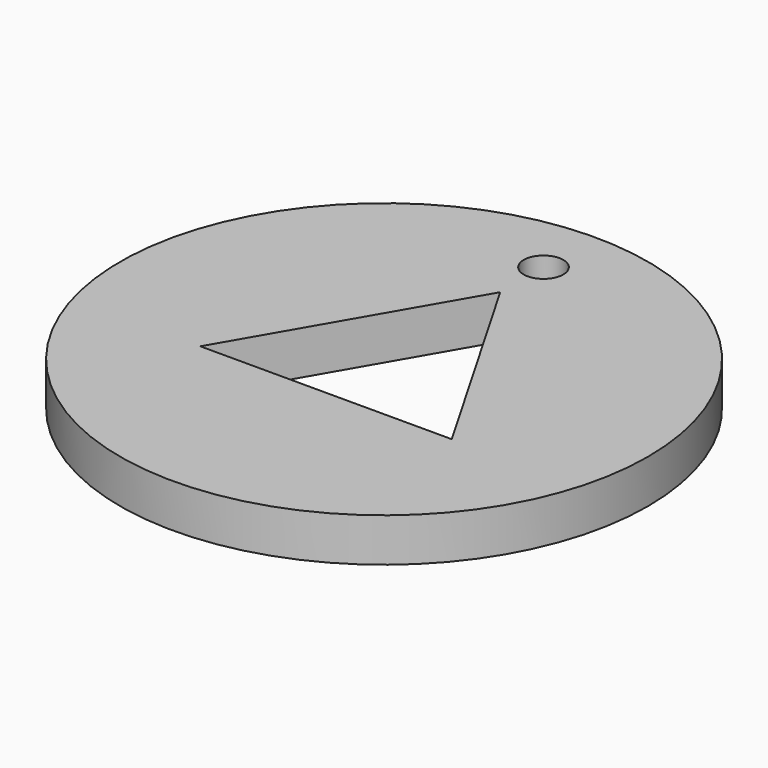
from build123d import *

# Parameters (mm, degrees)
CYLINDER_R      = 20
CYLINDER_DEPTH  = 3.3
SKETCH_R        = 1.5
POCKET_DEPTH    = 3.301
POCKET001_DEPTH = 3.301
POCKET002_DEPTH = 3.301


with BuildPart() as part:
    # Cylinder → Cylinder (new body)
    with BuildSketch(Plane.XY):
        Circle(CYLINDER_R)
    extrude(amount=CYLINDER_DEPTH)

    # Sketch (on Face2 of Cylinder) → Pocket (cut, through all)
    with BuildSketch(Plane.XY.offset(3.3)):
        with Locations((0, 15.1)):
            Circle(SKETCH_R)
    extrude(amount=-POCKET_DEPTH, mode=Mode.SUBTRACT)

    # Sketch001 (on Face1 of CopyCylinder) → Pocket001 (cut, through all)
    with BuildSketch(Plane(origin=(0, 0, 0), x_dir=(1, 0, 0), z_dir=(0, 0, -1))):
        Polygon((0, -11), (9.526279, 5.5), (-9.526279, 5.5), align=None)
    extrude(amount=-POCKET001_DEPTH, mode=Mode.SUBTRACT)

    # Sketch001 (on Face1 of CopyCylinder) → Pocket002 (cut, through all)
    with BuildSketch(Plane(origin=(0, 0, 0), x_dir=(1, 0, 0), z_dir=(0, 0, -1))):
        Polygon((0, -11), (9.526279, 5.5), (-9.526279, 5.5), align=None)
    extrude(amount=-POCKET002_DEPTH, mode=Mode.SUBTRACT)


solid = part.part
